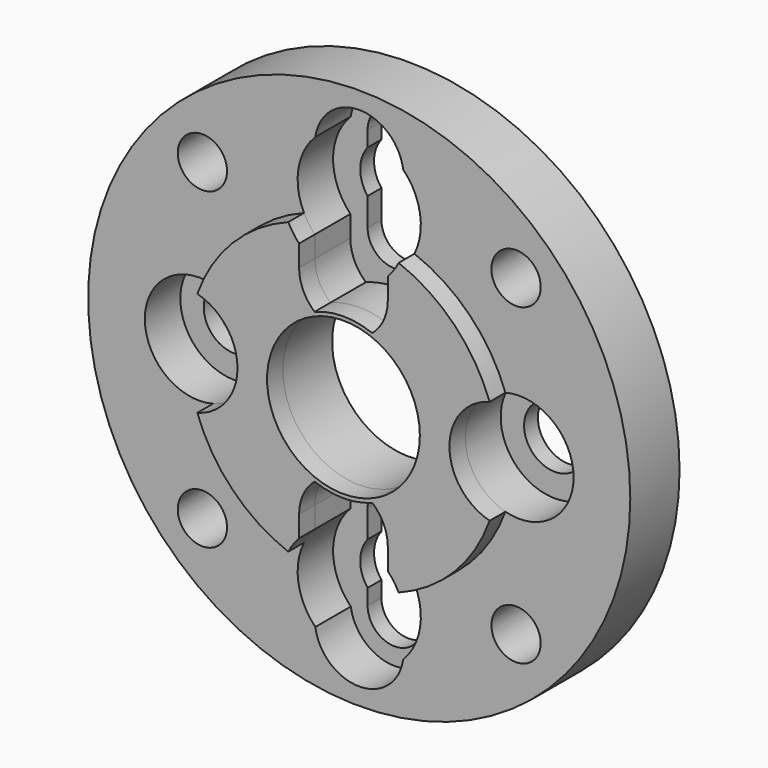
from build123d import *

# Parameters (mm, degrees)
F0_R     = 11
F2_DEPTH = 2.5
F1_R     = 3.1
F1_R_2   = 1.25
F1_R_3   = 1
F3_DEPTH = 2.501
F4_R     = 2.2
F5_DEPTH = 1.8
F6_R     = 6.3
F7_DEPTH = 0.8
F8_DEPTH = 0.8
F9_DEPTH = 3.301


with BuildPart() as f2:
    # F0 (on Front) → F2 (new body)
    with BuildSketch(Plane.XZ):
        Circle(F0_R)
    extrude(amount=F2_DEPTH)

    # F1 (on Front) → F3 (cut, through all)
    with BuildSketch(Plane.XZ):
        Circle(F1_R)
        with Locations((-6.5, 0)):
            Circle(F1_R_2)
        with Locations((-6.363961, 6.363961)):
            Circle(F1_R_3)
        with Locations((-6.363961, -6.363961)):
            Circle(F1_R_3)
        with Locations((6.363961, -6.363961)):
            Circle(F1_R_3)
        with Locations((6.363961, 6.363961)):
            Circle(F1_R_3)
        with Locations((6.5, 0)):
            Circle(F1_R_2)
        with BuildLine():
            ThreePointArc((1.1, -5), (0, -3.9), (-1.1, -5))
            Line((-1.1, -5), (-1.1, -6.133975))
            ThreePointArc((-1.1, -6.133975), (-1.4, -7), (-1.1, -7.866025))
            Line((-1.1, -7.866025), (-1.1, -8.5))
            ThreePointArc((-1.1, -8.5), (0, -9.6), (1.1, -8.5))
            Line((1.1, -8.5), (1.1, -7.866025))
            ThreePointArc((1.1, -7.866025), (1.4, -7), (1.1, -6.133975))
            Line((1.1, -6.133975), (1.1, -5))
        make_face()
        with BuildLine():
            Line((-1.1, 8.5), (-1.1, 7.866025))
            ThreePointArc((-1.1, 7.866025), (-1.4, 7), (-1.1, 6.133975))
            Line((-1.1, 6.133975), (-1.1, 5))
            ThreePointArc((-1.1, 5), (0, 3.9), (1.1, 5))
            Line((1.1, 5), (1.1, 6.133975))
            ThreePointArc((1.1, 6.133975), (1.4, 7), (1.1, 7.866025))
            Line((1.1, 7.866025), (1.1, 8.5))
            ThreePointArc((1.1, 8.5), (0, 9.6), (-1.1, 8.5))
        make_face()
    extrude(amount=F3_DEPTH, mode=Mode.SUBTRACT)

    # F4 (on face) → F5 (cut)
    with BuildSketch(Plane.XZ.offset(2.5)):
        with Locations((-6.5, 0)):
            Circle(F4_R)
        with Locations((6.5, 0)):
            Circle(F4_R)
        with BuildLine():
            Line((1.8, 4.4), (1.8, 5.265065))
            ThreePointArc((1.8, 5.265065), (2.499967, 7.01284), (1.782084, 8.753333))
            ThreePointArc((1.782084, 8.753333), (0, 10.3), (-1.782084, 8.753333))
            ThreePointArc((-1.782084, 8.753333), (-2.499967, 7.01284), (-1.8, 5.265065))
            Line((-1.8, 5.265065), (-1.8, 4.4))
            ThreePointArc((-1.8, 4.4), (-1.634926, 3.646995), (-1.169981, 3.032102))
            ThreePointArc((-1.169981, 3.032102), (0, 3.25), (1.169981, 3.032102))
            ThreePointArc((1.169981, 3.032102), (1.634926, 3.646995), (1.8, 4.4))
        make_face()
        with BuildLine():
            Line((-1.8, -4.4), (-1.8, -5.265065))
            ThreePointArc((-1.8, -5.265065), (-2.499967, -7.01284), (-1.782084, -8.753333))
            ThreePointArc((-1.782084, -8.753333), (0, -10.3), (1.782084, -8.753333))
            ThreePointArc((1.782084, -8.753333), (2.499967, -7.01284), (1.8, -5.265065))
            Line((1.8, -5.265065), (1.8, -4.4))
            ThreePointArc((1.8, -4.4), (1.634926, -3.646995), (1.169981, -3.032102))
            ThreePointArc((1.169981, -3.032102), (0, -3.25), (-1.169981, -3.032102))
            ThreePointArc((-1.169981, -3.032102), (-1.634926, -3.646995), (-1.8, -4.4))
        make_face()
    extrude(amount=-F5_DEPTH, mode=Mode.SUBTRACT)

    # F6 (on face) → F7 (join)
    with BuildSketch(Plane.XZ.offset(2.5)):
        Circle(F6_R)
    extrude(amount=F7_DEPTH)

    # F4 (on face) → F8 (cut)
    with BuildSketch(Plane.XZ.offset(2.5)):
        with Locations((-6.5, 0)):
            Circle(F4_R)
        with Locations((6.5, 0)):
            Circle(F4_R)
        with BuildLine():
            Line((1.8, 4.4), (1.8, 5.265065))
            ThreePointArc((1.8, 5.265065), (2.499967, 7.01284), (1.782084, 8.753333))
            ThreePointArc((1.782084, 8.753333), (0, 10.3), (-1.782084, 8.753333))
            ThreePointArc((-1.782084, 8.753333), (-2.499967, 7.01284), (-1.8, 5.265065))
            Line((-1.8, 5.265065), (-1.8, 4.4))
            ThreePointArc((-1.8, 4.4), (-1.634926, 3.646995), (-1.169981, 3.032102))
            ThreePointArc((-1.169981, 3.032102), (0, 3.25), (1.169981, 3.032102))
            ThreePointArc((1.169981, 3.032102), (1.634926, 3.646995), (1.8, 4.4))
        make_face()
        with BuildLine():
            Line((-1.8, -4.4), (-1.8, -5.265065))
            ThreePointArc((-1.8, -5.265065), (-2.499967, -7.01284), (-1.782084, -8.753333))
            ThreePointArc((-1.782084, -8.753333), (0, -10.3), (1.782084, -8.753333))
            ThreePointArc((1.782084, -8.753333), (2.499967, -7.01284), (1.8, -5.265065))
            Line((1.8, -5.265065), (1.8, -4.4))
            ThreePointArc((1.8, -4.4), (1.634926, -3.646995), (1.169981, -3.032102))
            ThreePointArc((1.169981, -3.032102), (0, -3.25), (-1.169981, -3.032102))
            ThreePointArc((-1.169981, -3.032102), (-1.634926, -3.646995), (-1.8, -4.4))
        make_face()
    extrude(amount=F8_DEPTH, mode=Mode.SUBTRACT)

    # F1 (on Front) → F9 (cut, through all)
    with BuildSketch(Plane.XZ):
        Circle(F1_R)
        with Locations((-6.5, 0)):
            Circle(F1_R_2)
        with Locations((-6.363961, 6.363961)):
            Circle(F1_R_3)
        with Locations((-6.363961, -6.363961)):
            Circle(F1_R_3)
        with Locations((6.363961, -6.363961)):
            Circle(F1_R_3)
        with Locations((6.363961, 6.363961)):
            Circle(F1_R_3)
        with Locations((6.5, 0)):
            Circle(F1_R_2)
        with BuildLine():
            ThreePointArc((1.1, -5), (0, -3.9), (-1.1, -5))
            Line((-1.1, -5), (-1.1, -6.133975))
            ThreePointArc((-1.1, -6.133975), (-1.4, -7), (-1.1, -7.866025))
            Line((-1.1, -7.866025), (-1.1, -8.5))
            ThreePointArc((-1.1, -8.5), (0, -9.6), (1.1, -8.5))
            Line((1.1, -8.5), (1.1, -7.866025))
            ThreePointArc((1.1, -7.866025), (1.4, -7), (1.1, -6.133975))
            Line((1.1, -6.133975), (1.1, -5))
        make_face()
        with BuildLine():
            Line((-1.1, 8.5), (-1.1, 7.866025))
            ThreePointArc((-1.1, 7.866025), (-1.4, 7), (-1.1, 6.133975))
            Line((-1.1, 6.133975), (-1.1, 5))
            ThreePointArc((-1.1, 5), (0, 3.9), (1.1, 5))
            Line((1.1, 5), (1.1, 6.133975))
            ThreePointArc((1.1, 6.133975), (1.4, 7), (1.1, 7.866025))
            Line((1.1, 7.866025), (1.1, 8.5))
            ThreePointArc((1.1, 8.5), (0, 9.6), (-1.1, 8.5))
        make_face()
    extrude(amount=F9_DEPTH, mode=Mode.SUBTRACT)


solid = f2.part
